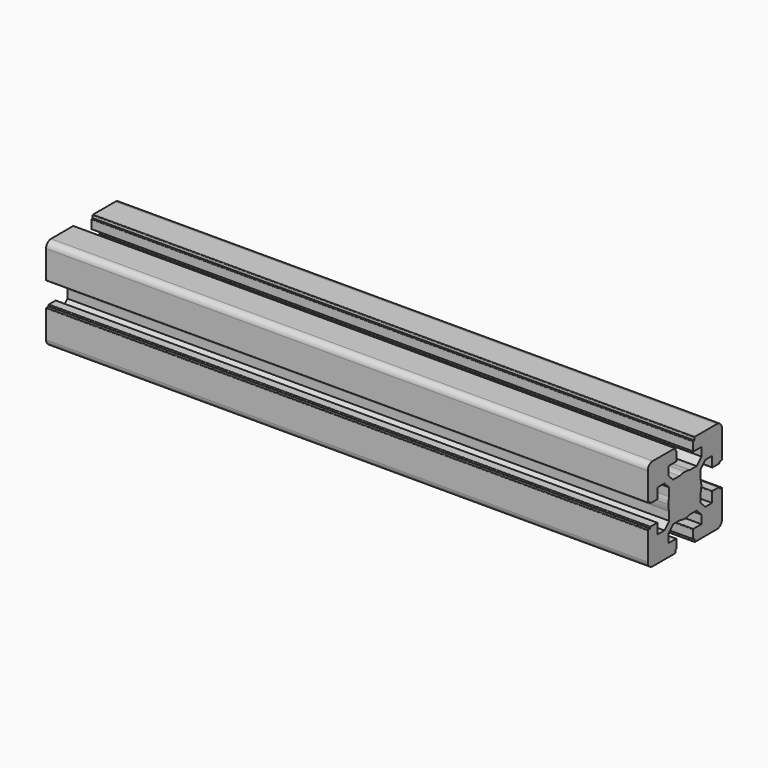
from build123d import *

# Parameters (mm, degrees)
F1_DEPTH = 292.1


with BuildPart() as f1:
    # F0 (on Right) → F1 (new body)
    with BuildSketch(Plane.YZ):
        with BuildLine():
            Line((-20.088481, -9.788837), (-20.088481, -10.288837))
            Line((-20.088481, -10.288837), (-21.28859, -10.288837))
            ThreePointArc((-21.28859, -10.288837), (-21.500722, -10.376705), (-21.58859, -10.588837))
            Line((-21.58859, -10.588837), (-21.58859, -23.988949))
            ThreePointArc((-21.58859, -23.988949), (-20.70991, -26.11027), (-18.58859, -26.988949))
            Line((-18.58859, -26.988949), (-5.188544, -26.988949))
            ThreePointArc((-5.188544, -26.988949), (-4.976411, -26.901081), (-4.888544, -26.688949))
            Line((-4.888544, -26.688949), (-4.888544, -25.488841))
            Line((-4.888544, -25.488841), (-4.388544, -25.488841))
            ThreePointArc((-4.388544, -25.488841), (-4.176411, -25.400973), (-4.088544, -25.188841))
            Line((-4.088544, -25.188841), (-4.088544, -21.288841))
            ThreePointArc((-4.088544, -21.288841), (-4.176411, -21.076709), (-4.388544, -20.988841))
            Line((-4.388544, -20.988841), (-9.138663, -20.988841))
            Line((-9.138663, -20.988841), (-9.138663, -16.881665))
            Line((-9.138663, -16.881665), (-6.245729, -13.988731))
            Line((-6.245729, -13.988731), (-2.211433, -13.988731))
            ThreePointArc((-2.211433, -13.988731), (-0.669869, -14.363044), (0.91149, -14.48887))
            Line((0.91149, -14.48887), (0.91149, -4.48887))
            Line((0.91149, -4.48887), (-9.08851, -4.48887))
            ThreePointArc((-9.08851, -4.48887), (-8.962684, -6.070229), (-8.588371, -7.611793))
            Line((-8.588371, -7.611793), (-8.588371, -11.646022))
            Line((-8.588371, -11.646022), (-11.481305, -14.538956))
            Line((-11.481305, -14.538956), (-15.588481, -14.538956))
            Line((-15.588481, -14.538956), (-15.588481, -9.788837))
            ThreePointArc((-15.588481, -9.788837), (-15.676349, -9.576705), (-15.888481, -9.488837))
            Line((-15.888481, -9.488837), (-19.788481, -9.488837))
            ThreePointArc((-19.788481, -9.488837), (-20.000613, -9.576705), (-20.088481, -9.788837))
        make_face()
        with BuildLine():
            ThreePointArc((-8.588371, -1.365947), (-8.962684, -2.907511), (-9.08851, -4.48887))
            Line((-9.08851, -4.48887), (0.91149, -4.48887))
            Line((0.91149, -4.48887), (0.91149, 5.51113))
            ThreePointArc((0.91149, 5.51113), (-0.669869, 5.385303), (-2.211433, 5.010991))
            Line((-2.211433, 5.010991), (-6.245729, 5.010991))
            Line((-6.245729, 5.010991), (-9.138663, 7.903925))
            Line((-9.138663, 7.903925), (-9.138663, 12.011101))
            Line((-9.138663, 12.011101), (-4.388544, 12.011101))
            ThreePointArc((-4.388544, 12.011101), (-4.176411, 12.098969), (-4.088544, 12.311101))
            Line((-4.088544, 12.311101), (-4.088544, 16.211101))
            ThreePointArc((-4.088544, 16.211101), (-4.176411, 16.423233), (-4.388544, 16.511101))
            Line((-4.388544, 16.511101), (-4.888544, 16.511101))
            Line((-4.888544, 16.511101), (-4.888544, 17.711209))
            ThreePointArc((-4.888544, 17.711209), (-4.976411, 17.923341), (-5.188544, 18.011209))
            Line((-5.188544, 18.011209), (-18.58859, 18.011209))
            ThreePointArc((-18.58859, 18.011209), (-20.70991, 17.13253), (-21.58859, 15.011209))
            Line((-21.58859, 15.011209), (-21.58859, 1.611097))
            ThreePointArc((-21.58859, 1.611097), (-21.500722, 1.398965), (-21.28859, 1.311097))
            Line((-21.28859, 1.311097), (-20.088481, 1.311097))
            Line((-20.088481, 1.311097), (-20.088481, 0.811097))
            ThreePointArc((-20.088481, 0.811097), (-20.000613, 0.598965), (-19.788481, 0.511097))
            Line((-19.788481, 0.511097), (-15.888481, 0.511097))
            ThreePointArc((-15.888481, 0.511097), (-15.676349, 0.598965), (-15.588481, 0.811097))
            Line((-15.588481, 0.811097), (-15.588481, 5.561216))
            Line((-15.588481, 5.561216), (-11.481305, 5.561216))
            Line((-11.481305, 5.561216), (-8.588371, 2.668282))
            Line((-8.588371, 2.668282), (-8.588371, -1.365947))
        make_face()
        with BuildLine():
            Line((0.91149, 5.51113), (0.91149, -4.48887))
            Line((0.91149, -4.48887), (10.91149, -4.48887))
            ThreePointArc((10.91149, -4.48887), (10.785663, -2.907511), (10.41135, -1.365947))
            Line((10.41135, -1.365947), (10.41135, 2.668282))
            Line((10.41135, 2.668282), (13.304285, 5.561216))
            Line((13.304285, 5.561216), (14.016842, 5.561216))
            Line((14.016842, 5.561216), (17.41146, 5.561216))
            Line((17.41146, 5.561216), (17.41146, 0.811097))
            ThreePointArc((17.41146, 0.811097), (17.499328, 0.598965), (17.71146, 0.511097))
            Line((17.71146, 0.511097), (21.61146, 0.511097))
            ThreePointArc((21.61146, 0.511097), (21.823593, 0.598965), (21.91146, 0.811097))
            Line((21.91146, 0.811097), (21.91146, 1.311097))
            Line((21.91146, 1.311097), (23.111569, 1.311097))
            ThreePointArc((23.111569, 1.311097), (23.323701, 1.398965), (23.411569, 1.611097))
            Line((23.411569, 1.611097), (23.411569, 15.011209))
            ThreePointArc((23.411569, 15.011209), (22.532889, 17.13253), (20.411569, 18.011209))
            Line((20.411569, 18.011209), (7.011523, 18.011209))
            ThreePointArc((7.011523, 18.011209), (6.799391, 17.923341), (6.711523, 17.711209))
            Line((6.711523, 17.711209), (6.711523, 16.511101))
            Line((6.711523, 16.511101), (6.211523, 16.511101))
            ThreePointArc((6.211523, 16.511101), (5.999391, 16.423233), (5.911523, 16.211101))
            Line((5.911523, 16.211101), (5.911523, 12.311101))
            ThreePointArc((5.911523, 12.311101), (5.999391, 12.098969), (6.211523, 12.011101))
            Line((6.211523, 12.011101), (10.961642, 12.011101))
            Line((10.961642, 12.011101), (10.961642, 7.903925))
            Line((10.961642, 7.903925), (8.068708, 5.010991))
            Line((8.068708, 5.010991), (4.034413, 5.010991))
            ThreePointArc((4.034413, 5.010991), (2.492849, 5.385303), (0.91149, 5.51113))
        make_face()
        with BuildLine():
            Line((10.91149, -4.48887), (0.91149, -4.48887))
            Line((0.91149, -4.48887), (0.91149, -14.48887))
            ThreePointArc((0.91149, -14.48887), (2.492849, -14.363044), (4.034413, -13.988731))
            Line((4.034413, -13.988731), (8.068708, -13.988731))
            Line((8.068708, -13.988731), (10.961642, -16.881665))
            Line((10.961642, -16.881665), (10.961642, -20.988841))
            Line((10.961642, -20.988841), (6.211523, -20.988841))
            ThreePointArc((6.211523, -20.988841), (5.999391, -21.076709), (5.911523, -21.288841))
            Line((5.911523, -21.288841), (5.911523, -25.188841))
            ThreePointArc((5.911523, -25.188841), (5.999391, -25.400973), (6.211523, -25.488841))
            Line((6.211523, -25.488841), (6.711523, -25.488841))
            Line((6.711523, -25.488841), (6.711523, -26.688949))
            ThreePointArc((6.711523, -26.688949), (6.799391, -26.901081), (7.011523, -26.988949))
            Line((7.011523, -26.988949), (20.411569, -26.988949))
            ThreePointArc((20.411569, -26.988949), (22.532889, -26.11027), (23.411569, -23.988949))
            Line((23.411569, -23.988949), (23.411569, -10.588837))
            ThreePointArc((23.411569, -10.588837), (23.323701, -10.376705), (23.111569, -10.288837))
            Line((23.111569, -10.288837), (21.91146, -10.288837))
            Line((21.91146, -10.288837), (21.91146, -9.788837))
            ThreePointArc((21.91146, -9.788837), (21.823593, -9.576705), (21.61146, -9.488837))
            Line((21.61146, -9.488837), (17.71146, -9.488837))
            ThreePointArc((17.71146, -9.488837), (17.499328, -9.576705), (17.41146, -9.788837))
            Line((17.41146, -9.788837), (17.41146, -14.538956))
            Line((17.41146, -14.538956), (13.304285, -14.538956))
            Line((13.304285, -14.538956), (10.41135, -11.646022))
            Line((10.41135, -11.646022), (10.41135, -7.611793))
            ThreePointArc((10.41135, -7.611793), (10.785663, -6.070229), (10.91149, -4.48887))
        make_face()
    extrude(amount=F1_DEPTH)


solid = f1.part
